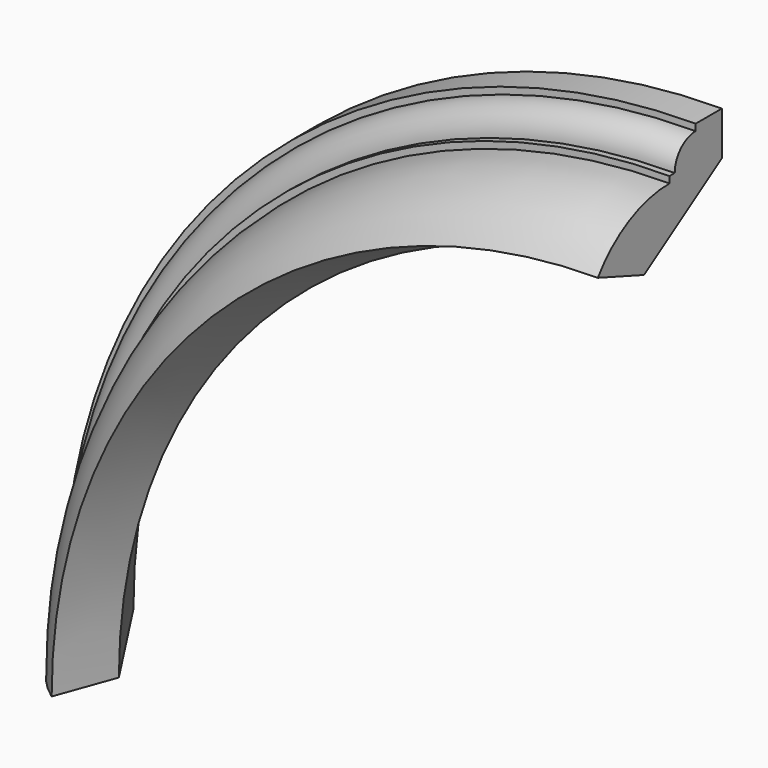
from build123d import *


with BuildPart() as f3:
    # F3: sweep along a path in F2
    with BuildLine(Plane.XZ.offset(105.8403934839)) as f3_path:
        ThreePointArc((-38.3972818889, 0), (254.4959369246, 707.1067811865), (961.6027181111, 1000))
    # F0 (on Top) → F3 (sweep)
    with BuildSketch(Plane.XY):
        with BuildLine():
            Line((-38.3972818889, -105.8403934839), (0, 0))
            Line((0, 0), (-115.8749862256, 178.1249802876))
            Line((-115.8749862256, 178.1249802876), (-195.8749862256, 178.1249802876))
            Line((-195.8749862256, 178.1249802876), (-195.8749862256, 118.1249802876))
            Line((-195.8749862256, 118.1249802876), (-183.8749862256, 118.1249802876))
            ThreePointArc((-183.8749862256, 118.1249802876), (-169.8161117226, 84.1838547906), (-135.8749862256, 70.1249802876))
            Line((-135.8749862256, 70.1249802876), (-135.8749862256, 58.1249802876))
            Line((-135.8749862256, 58.1249802876), (-123.8749862256, 58.1249802876))
            ThreePointArc((-123.8749862256, 58.1249802876), (-101.2227507064, -34.329172857), (-38.3972818889, -105.8403934839))
        make_face()
    sweep(path=f3_path.line)


solid = f3.part
